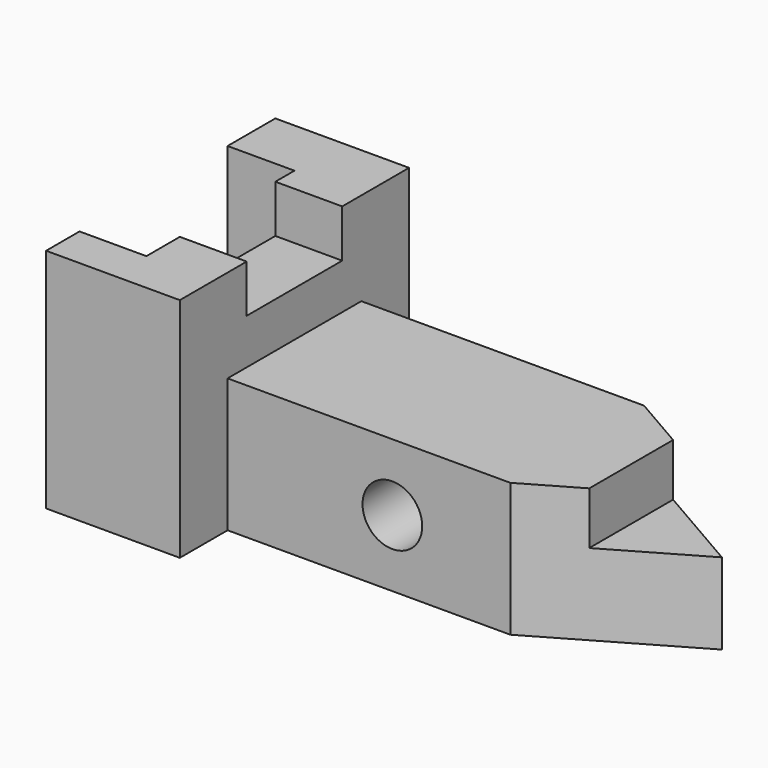
from build123d import *

# Parameters (mm, degrees)
F0_W      = 28.448
F0_H      = 60.96
F1_DEPTH  = 48.26
F2_W      = 25.4
F2_H      = 10.16
F3_DEPTH  = 28.449
F4_W      = 14.224
F4_H      = 39.37
F5_DEPTH  = 48.261
F6_W      = 35.56
F6_H      = 28.448
F7_DEPTH  = 90.932
F8_W      = 19.304
F8_H      = 11.176
F9_DEPTH  = 48.261
F11_DEPTH = 48.261
F12_R     = 6.35
F13_DEPTH = 48.261


with BuildPart() as f1:
    # F0 (on Top) → F1 (new body)
    with BuildSketch(Plane.XY):
        Rectangle(F0_W, F0_H)
    extrude(amount=F1_DEPTH)

    # F2 (on face) → F3 (cut, through all)
    with BuildSketch(Plane.YZ.offset(14.224)):
        with Locations((0, 43.18)):
            Rectangle(F2_W, F2_H)
    extrude(amount=-F3_DEPTH, mode=Mode.SUBTRACT)

    # F4 (on face) → F5 (cut, through all)
    with BuildSketch(Plane.XY.offset(48.26)):
        with Locations((-7.112, -1.905)):
            Rectangle(F4_W, F4_H)
    extrude(amount=-F5_DEPTH, mode=Mode.SUBTRACT)

    # F6 (on face) → F7 (join)
    with BuildSketch(Plane.YZ.offset(14.224)):
        with Locations((0, 14.224)):
            Rectangle(F6_W, F6_H)
    extrude(amount=F7_DEPTH)

    # F8 (on face) → F9 (cut, through all)
    with BuildSketch(Plane.XZ.offset(17.78)):
        with Locations((95.504, 22.86)):
            Rectangle(F8_W, F8_H)
    extrude(amount=-F9_DEPTH, mode=Mode.SUBTRACT)

    # F10 (on face) → F11 (cut, through all)
    with BuildSketch(Plane(origin=(0, 0, 0), x_dir=(1, 0, 0), z_dir=(0, 0, -1))):
        Polygon((74.360137, 17.78), (105.156, 0), (105.156, 17.78), align=None)
        Polygon((105.156, -17.78), (105.156, 0), (74.360137, -17.78), align=None)
    extrude(amount=-F11_DEPTH, mode=Mode.SUBTRACT)

    # F12 (on face) → F13 (cut, through all)
    with BuildSketch(Plane.XZ.offset(17.78)):
        with Locations((49.276, 14.224)):
            Circle(F12_R)
    extrude(amount=-F13_DEPTH, mode=Mode.SUBTRACT)


solid = f1.part
